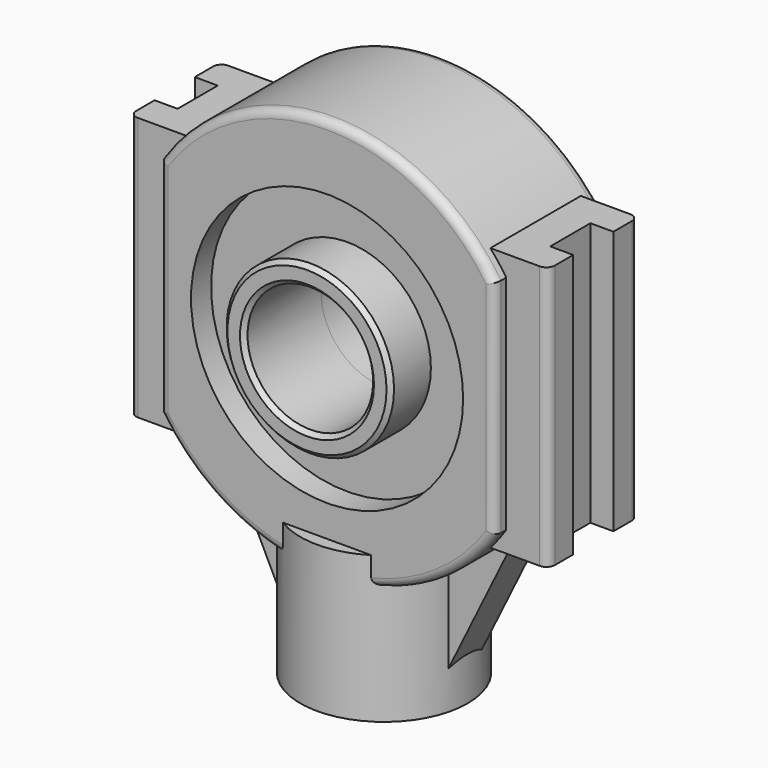
from build123d import *

# Parameters (mm, degrees)
F0_R           = 32.5
F1_DEPTH       = 17
F2_W           = 13.7819105971
F2_H           = 63
F3_DEPTH       = 13.5
F4_W           = 11
F4_H           = 12
F5_DEPTH       = 79.501
F7_R           = 20
F8_DEPTH       = 35
F10_D          = 17.5
F10_DEPTH      = 20
F10_TIP        = 5.2575304165
F12_DEPTH      = 5
F13_R          = 32.5
F13_R_2        = 20
F14_DEPTH      = 11
F14_DEPTH_BACK = 5
F15_R          = 20
F15_R_2        = 15
F16_DEPTH      = 23
F16_DEPTH_BACK = 11
F17_SIZE       = 1
F18_R          = 2


with BuildPart() as f1:
    # F0 (on Front) → F1 (new body, symmetric)
    with BuildSketch(Plane.XZ):
        with BuildLine():
            Line((-40, 26.5329983228), (-40, -26.5329983228))
            ThreePointArc((-40, -26.5329983228), (0, -48), (40, -26.5329983228))
            Line((40, -26.5329983228), (40, 26.5329983228))
            ThreePointArc((40, 26.5329983228), (0, 48), (-40, 26.5329983228))
        make_face()
        Circle(F0_R, mode=Mode.SUBTRACT)
    extrude(amount=F1_DEPTH, both=True)

    # F2 (on Front) → F3 (join, symmetric)
    with BuildSketch(Plane.XZ):
        with Locations((-43.1090447015, 0)):
            Rectangle(F2_W, F2_H)
        with Locations((43.1090447015, 0)):
            Rectangle(F2_W, F2_H)
    extrude(amount=F3_DEPTH, both=True)

    # F4 (on face) → F5 (cut, through all)
    with BuildSketch(Plane.XY.offset(31.5)):
        with Locations((50, 0)):
            Rectangle(F4_W, F4_H)
        with Locations((-50, 0)):
            Rectangle(F4_W, F4_H)
    extrude(amount=-F5_DEPTH, mode=Mode.SUBTRACT)

    # F7 (on offset) → F8 (join)
    with BuildSketch(Plane.XY.offset(-40)):
        Circle(F7_R)
    extrude(amount=-F8_DEPTH)

    # F10
    with Locations(Plane(origin=(0, 0, -75), x_dir=(1, 0, 0), z_dir=(0, 0, -1))):
        with Locations((0, 0)):
            Hole(F10_D / 2, depth=F10_DEPTH)
            with Locations((0, 0, -(F10_DEPTH + F10_TIP / 2))):  # 118° drill point
                Cone(0, F10_D / 2, F10_TIP, mode=Mode.SUBTRACT)

    # F11 (on Front) → F12 (join, symmetric)
    with BuildSketch(Plane.XZ):
        Polygon((-17.5, -44.6961967062), (-36.2180894029, -31.5), (-17.5, -69.6961967062), align=None)
        Polygon((36.2180894029, -31.5), (17.5, -44.6961967062), (17.5, -69.6961967062), align=None)
    extrude(amount=F12_DEPTH, both=True)

    # F18
    f18_edges = [f1.edges().sort_by_distance(p)[0] for p in [
        (0, -17, 48),
        (-27.229577, -17, -39.529105),
        (27.229577, -17, -39.529105),
        (-40, -17, 0),
        (40, -17, 0),
        (0, 17, 48),
        (40, 17, 0),
        (27.229577, 17, -39.529105),
        (-27.229577, 17, -39.529105),
        (-40, 17, 0),
        (50, -13.5, 0),
        (50, 13.5, 0),
        (-50, -13.5, 0),
        (-50, 13.5, 0),
    ]]
    fillet(f18_edges, radius=F18_R)


with BuildPart() as f14:
    # F13 (on Front) → F14 (new body, two sides)
    with BuildSketch(Plane.XZ) as f14_sk:
        Circle(F13_R)
        Circle(F13_R_2, mode=Mode.SUBTRACT)
    extrude(amount=F14_DEPTH)
    extrude(f14_sk.sketch, amount=-F14_DEPTH_BACK)

    # F15 (on Front) → F16 (join, two sides)
    with BuildSketch(Plane.XZ) as f16_sk:
        Circle(F15_R)
        Circle(F15_R_2, mode=Mode.SUBTRACT)
    extrude(amount=F16_DEPTH)
    extrude(f16_sk.sketch, amount=-F16_DEPTH_BACK)

    # F17
    f17_edges = [f14.edges().sort_by_distance(p)[0] for p in [
        (-20, -23, 0),
        (-15, -23, 0),
        (-20, 11, 0),
        (-15, 11, 0),
    ]]
    chamfer(f17_edges, length=F17_SIZE)


solid = Compound([f1.part, f14.part])
